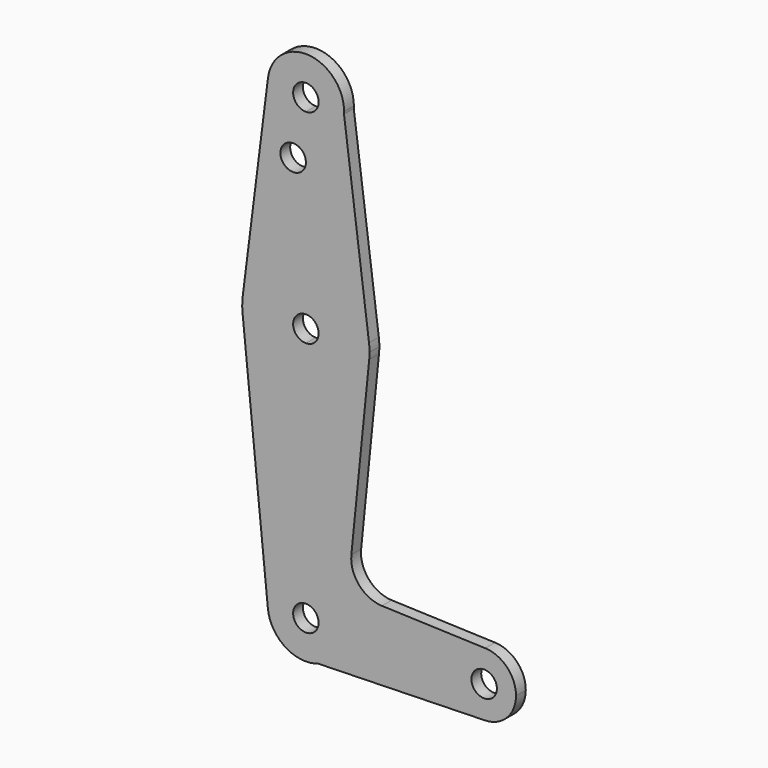
from build123d import *

# Parameters (mm, degrees)
F0_R     = 3.175
F1_DEPTH = 3.048


with BuildPart() as f1:
    # F0 (on Front) → F1 (new body)
    with BuildSketch(Plane.XZ):
        with BuildLine():
            Line((0, 60.325), (0, 47.625))
            ThreePointArc((0, 47.625), (10.6492737428, 51.7267849017), (15.7954255641, 61.9125))
            ThreePointArc((15.7954255641, 61.9125), (15.8550939106, 62.7052534459), (15.875, 63.5))
            ThreePointArc((15.875, 63.5), (15.8420907747, 64.5216579109), (15.7434995418, 65.539079983))
            ThreePointArc((15.7434995418, 65.539079983), (10.4796285781, 75.4244710518), (0, 79.375))
            Line((0, 79.375), (0, 66.675))
            ThreePointArc((0, 66.675), (2.2450640303, 65.7450640303), (3.175, 63.5))
            ThreePointArc((3.175, 63.5), (2.2450640303, 61.2549359697), (0, 60.325))
        make_face()
        with BuildLine():
            ThreePointArc((-15.7504882737, 65.484375), (-15.8737438155, 63.6997054867), (-15.7954255641, 61.9125))
            ThreePointArc((-15.7954255641, 61.9125), (-10.6492737428, 51.7267849017), (0, 47.625))
            Line((0, 47.625), (0, 60.325))
            ThreePointArc((0, 60.325), (-3.175, 63.5), (0, 66.675))
            Line((0, 66.675), (0, 79.375))
            ThreePointArc((0, 79.375), (-10.5003255158, 75.40625), (-15.7504882737, 65.484375))
        make_face()
        with BuildLine():
            Line((-9.4502929642, 115.490625), (-15.7504882737, 65.484375))
            ThreePointArc((-15.7504882737, 65.484375), (-10.5003255158, 75.40625), (0, 79.375))
            Line((0, 79.375), (0, 100.0252))
            Line((0, 100.0252), (0, 104.775))
            ThreePointArc((0, 104.775), (-7.14375, 107.9998046905), (-9.4502929642, 115.490625))
        make_face()
        with Locations((-3.175, 100.0252)):
            Circle(F0_R, mode=Mode.SUBTRACT)
        with BuildLine():
            Line((0, 100.0252), (0, 79.375))
            ThreePointArc((0, 79.375), (10.4796285781, 75.4244710518), (15.7434995418, 65.539079983))
            Line((15.7434995418, 65.539079983), (9.5059749897, 113.6982820474))
            ThreePointArc((9.5059749897, 113.6982820474), (6.5189823401, 107.3553261956), (0, 104.775))
            Line((0, 104.775), (0, 100.0252))
        make_face()
        with BuildLine():
            Line((0, 47.625), (0, 9.525))
            ThreePointArc((0, 9.525), (6.7351920908, 6.7351920908), (9.525, 0))
            Line((9.525, 0), (36.5125, 0))
            ThreePointArc((36.5125, 0), (38.9384772185, 5.7120069047), (44.7334821429, 7.9324362036))
            Line((44.7334821429, 7.9324362036), (18.9676000005, 8.8532337108))
            ThreePointArc((18.9676000005, 8.8532337108), (13.2611998974, 11.5713591498), (11.3411865923, 17.5933818124))
            Line((11.3411865923, 17.5933818124), (15.7954255641, 61.9125))
            ThreePointArc((15.7954255641, 61.9125), (10.6492737428, 51.7267849017), (0, 47.625))
        make_face()
        with BuildLine():
            Line((-15.7954255641, 61.9125), (-9.4772553384, -0.9525))
            ThreePointArc((-9.4772553384, -0.9525), (-7.063929059, 6.3895642457), (0, 9.525))
            Line((0, 9.525), (0, 47.625))
            ThreePointArc((0, 47.625), (-10.6492737428, 51.7267849017), (-15.7954255641, 61.9125))
        make_face()
        with BuildLine():
            ThreePointArc((9.525, 0), (6.7351920908, 6.7351920908), (0, 9.525))
            Line((0, 9.525), (0, 3.175))
            ThreePointArc((0, 3.175), (2.2450640303, 2.2450640303), (3.175, 0))
            Line((3.175, 0), (9.525, 0))
        make_face()
        with BuildLine():
            ThreePointArc((0, 9.525), (-7.063929059, 6.3895642457), (-9.4772553384, -0.9525))
            ThreePointArc((-9.4772553384, -0.9525), (-5.1392241718, -8.0196009821), (3.0939088023, -9.0085156004))
            ThreePointArc((3.0939088023, -9.0085156004), (7.752261165, -5.5342634405), (9.525, 0))
            Line((9.525, 0), (3.175, 0))
            ThreePointArc((3.175, 0), (-2.2450640303, -2.2450640303), (0, 3.175))
            Line((0, 3.175), (0, 9.525))
        make_face()
        with BuildLine():
            ThreePointArc((36.5125, 0), (38.9102867631, -5.684670923), (44.6549840321, -7.9348527268))
            ThreePointArc((44.6549840321, -7.9348527268), (50.134670923, -5.5397132369), (52.3875, 0))
            ThreePointArc((52.3875, 0), (50.1620069047, 5.5115227815), (44.7334821429, 7.9324362036))
            ThreePointArc((44.7334821429, 7.9324362036), (38.9384772185, 5.7120069047), (36.5125, 0))
        make_face()
        with BuildLine():
            ThreePointArc((47.625, 0), (44.45, -3.175), (41.275, 0))
            ThreePointArc((41.275, 0), (44.45, 3.175), (47.625, 0))
        make_face(mode=Mode.SUBTRACT)
        with BuildLine():
            ThreePointArc((9.525, 0), (7.752261165, -5.5342634405), (3.0939088023, -9.0085156004))
            Line((3.0939088023, -9.0085156004), (44.6549840321, -7.9348527268))
            ThreePointArc((44.6549840321, -7.9348527268), (38.9102867631, -5.684670923), (36.5125, 0))
            Line((36.5125, 0), (9.525, 0))
        make_face()
        with BuildLine():
            ThreePointArc((9.525, 114.3), (0.596483242, 123.8063048942), (-9.4502929642, 115.490625))
            ThreePointArc((-9.4502929642, 115.490625), (-7.14375, 107.9998046905), (0, 104.775))
            ThreePointArc((0, 104.775), (6.5189823401, 107.3553261956), (9.5059749897, 113.6982820474))
            ThreePointArc((9.5059749897, 113.6982820474), (9.5202425593, 113.9989906789), (9.525, 114.3))
        make_face()
        with BuildLine():
            ThreePointArc((3.175, 114.3), (2.2450640303, 112.0549359697), (0, 111.125))
            ThreePointArc((0, 111.125), (-2.2450640303, 116.5450640303), (3.175, 114.3))
        make_face(mode=Mode.SUBTRACT)
    extrude(amount=F1_DEPTH)


solid = f1.part
